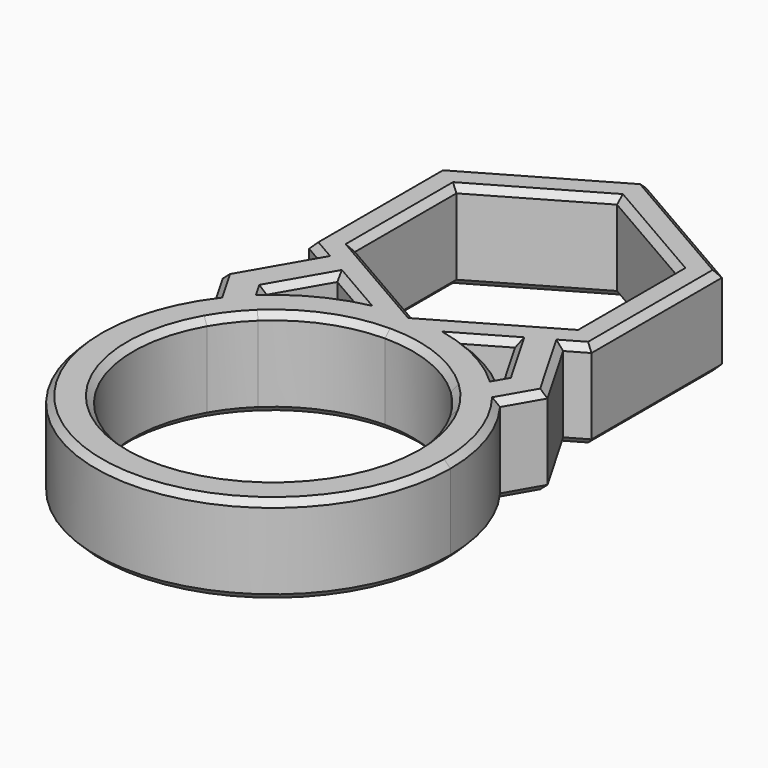
from build123d import *

# Parameters (mm, degrees)
F1_DEPTH = 7
F2_SIZE  = 0.5


with BuildPart() as f1:
    # F0 (on Top) → F1 (new body)
    with BuildSketch(Plane.XY):
        Polygon((8.378810594, 18.741624645), (9.614679115, 16.6010375752), (11.146737042, 17.4855716318), (11.146737042, 30.3567148954), (0, 36.7922865272), (-11.146737042, 30.3567148954), (-11.146737042, 17.4855716318), (-9.614679115, 16.6010375752), (-8.378810594, 18.741624645), (-8.675, 18.9126296784), (-8.675, 28.9296568488), (0, 33.938170434), (8.675, 28.9296568488), (8.675, 18.9126296784), align=None)
        Polygon((8.378810594, 18.741624645), (9.614679115, 16.6010375752), (11.146737042, 17.4855716318), (11.146737042, 30.3567148954), (0, 36.7922865272), (-11.146737042, 30.3567148954), (-11.146737042, 17.4855716318), (-9.614679115, 16.6010375752), (-8.378810594, 18.741624645), (-8.675, 18.9126296784), (-8.675, 28.9296568488), (0, 33.938170434), (8.675, 28.9296568488), (8.675, 18.9126296784), align=None)
        with BuildLine():
            Line((-4.0649183257, 13.3968816896), (0, 11.05))
            Line((0, 11.05), (4.0649183257, 13.3968816896))
            ThreePointArc((4.0649183257, 13.3968816896), (2.1359865208, 13.8360963275), (0.1644037795, 13.9990346595))
            Line((0.1644037795, 13.9990346595), (0, 13.9041160931))
            Line((0, 13.9041160931), (-0.1644037795, 13.9990346595))
            ThreePointArc((-0.1644037795, 13.9990346595), (-2.1359865208, 13.8360963275), (-4.0649183257, 13.3968816896))
        make_face()
        Polygon((8.378810594, 18.741624645), (9.614679115, 16.6010375752), (11.146737042, 17.4855716318), (11.146737042, 30.3567148954), (0, 36.7922865272), (-11.146737042, 30.3567148954), (-11.146737042, 17.4855716318), (-9.614679115, 16.6010375752), (-8.378810594, 18.741624645), (-8.675, 18.9126296784), (-8.675, 28.9296568488), (0, 33.938170434), (8.675, 28.9296568488), (8.675, 18.9126296784), align=None)
        with BuildLine():
            ThreePointArc((9.1121955979, 10.6286354433), (10.2458784466, 9.5405437401), (11.2504851637, 8.3322616126))
            Line((11.2504851637, 8.3322616126), (12.8195721533, 11.05))
            Line((12.8195721533, 11.05), (9.614679115, 16.6010375752))
            Line((9.614679115, 16.6010375752), (7.0166029036, 15.1010375752))
            Line((7.0166029036, 15.1010375752), (9.3554705381, 11.05))
            Line((9.3554705381, 11.05), (9.1121955979, 10.6286354433))
        make_face()
        with BuildLine():
            ThreePointArc((7.6044558373, 8.0171535733), (8.6955707884, 6.8183244762), (9.5995515555, 5.4727607232))
            Line((9.5995515555, 5.4727607232), (11.2504851637, 8.3322616126))
            ThreePointArc((11.2504851637, 8.3322616126), (10.2458784466, 9.5405437401), (9.1121955979, 10.6286354433))
            Line((9.1121955979, 10.6286354433), (7.6044558373, 8.0171535733))
        make_face()
        with BuildLine():
            ThreePointArc((0, 11.05), (4.0934675408, 10.2638210961), (7.6044558373, 8.0171535733))
            Line((7.6044558373, 8.0171535733), (9.1121955979, 10.6286354433))
            ThreePointArc((9.1121955979, 10.6286354433), (6.7323754841, 12.2749794436), (4.0649183257, 13.3968816896))
            Line((4.0649183257, 13.3968816896), (0, 11.05))
        make_face()
        with BuildLine():
            Line((-9.1121955979, 10.6286354433), (-7.6044558373, 8.0171535733))
            ThreePointArc((-7.6044558373, 8.0171535733), (-4.0934675408, 10.2638210961), (0, 11.05))
            Line((0, 11.05), (-4.0649183257, 13.3968816896))
            ThreePointArc((-4.0649183257, 13.3968816896), (-6.7323754841, 12.2749794436), (-9.1121955979, 10.6286354433))
        make_face()
        with BuildLine():
            Line((-4.0649183257, 13.3968816896), (0, 11.05))
            Line((0, 11.05), (4.0649183257, 13.3968816896))
            ThreePointArc((4.0649183257, 13.3968816896), (2.1359865208, 13.8360963275), (0.1644037795, 13.9990346595))
            Line((0.1644037795, 13.9990346595), (0, 13.9041160931))
            Line((0, 13.9041160931), (-0.1644037795, 13.9990346595))
            ThreePointArc((-0.1644037795, 13.9990346595), (-2.1359865208, 13.8360963275), (-4.0649183257, 13.3968816896))
        make_face()
        with BuildLine():
            ThreePointArc((9.5995515555, 5.4727607232), (10.6812345889, 2.8308528142), (11.05, 0))
            ThreePointArc((11.05, 0), (-2.8308528142, -10.6812345889), (-9.5995515555, 5.4727607232))
            Line((-9.5995515555, 5.4727607232), (-11.2504851637, 8.3322616126))
            ThreePointArc((-11.2504851637, 8.3322616126), (-4.3870951499, -13.2948635249), (14, 0))
            ThreePointArc((14, 0), (13.2948635249, 4.3870951499), (11.2504851637, 8.3322616126))
            Line((11.2504851637, 8.3322616126), (9.5995515555, 5.4727607232))
        make_face()
        with BuildLine():
            Line((-11.2504851637, 8.3322616126), (-9.5995515555, 5.4727607232))
            ThreePointArc((-9.5995515555, 5.4727607232), (-8.6955707884, 6.8183244762), (-7.6044558373, 8.0171535733))
            Line((-7.6044558373, 8.0171535733), (-9.1121955979, 10.6286354433))
            ThreePointArc((-9.1121955979, 10.6286354433), (-10.2458784466, 9.5405437401), (-11.2504851637, 8.3322616126))
        make_face()
        with BuildLine():
            Line((-12.8195721533, 11.05), (-11.2504851637, 8.3322616126))
            ThreePointArc((-11.2504851637, 8.3322616126), (-10.2458784466, 9.5405437401), (-9.1121955979, 10.6286354433))
            Line((-9.1121955979, 10.6286354433), (-9.3554705381, 11.05))
            Line((-9.3554705381, 11.05), (-7.0166029036, 15.1010375752))
            Line((-7.0166029036, 15.1010375752), (-9.614679115, 16.6010375752))
            Line((-9.614679115, 16.6010375752), (-12.8195721533, 11.05))
        make_face()
        with BuildLine():
            Line((-7.0166029036, 15.1010375752), (-4.0649183257, 13.3968816896))
            ThreePointArc((-4.0649183257, 13.3968816896), (-2.1359865208, 13.8360963275), (-0.1644037795, 13.9990346595))
            Line((-0.1644037795, 13.9990346595), (-5.7807343826, 17.241624645))
            Line((-5.7807343826, 17.241624645), (-7.0166029036, 15.1010375752))
        make_face()
        Polygon((-8.378810594, 18.741624645), (-9.614679115, 16.6010375752), (-7.0166029036, 15.1010375752), (-5.7807343826, 17.241624645), align=None)
        Polygon((7.0166029036, 15.1010375752), (9.614679115, 16.6010375752), (8.378810594, 18.741624645), (5.7807343826, 17.241624645), align=None)
        with BuildLine():
            ThreePointArc((0.1644037795, 13.9990346595), (2.1359865208, 13.8360963275), (4.0649183257, 13.3968816896))
            Line((4.0649183257, 13.3968816896), (7.0166029036, 15.1010375752))
            Line((7.0166029036, 15.1010375752), (5.7807343826, 17.241624645))
            Line((5.7807343826, 17.241624645), (0.1644037795, 13.9990346595))
        make_face()
    extrude(amount=F1_DEPTH)

    # F2
    f2_edges = [f1.edges().sort_by_distance(p)[0] for p in [
        (-11.146737, 23.921143, 7),
        (-5.573369, 33.574501, 7),
        (5.573369, 33.574501, 7),
        (11.146737, 23.921143, 7),
        (10.380708, 17.043305, 7),
        (11.217126, 13.825519, 7),
        (12.035029, 9.691131, 7),
        (0, -14, 7),
        (-12.035029, 9.691131, 7),
        (-11.217126, 13.825519, 7),
        (-10.380708, 17.043305, 7),
        (9.599552, -5.472761, 7),
        (-6.732375, 12.274979, 7),
        (-9.233833, 10.839318, 7),
        (-8.186037, 13.075519, 7),
        (-5.540761, 14.24896, 7),
        (4.3375, 16.408373, 7),
        (-4.3375, 16.408373, 7),
        (-8.675, 23.921143, 7),
        (-4.3375, 31.433914, 7),
        (4.3375, 31.433914, 7),
        (8.675, 23.921143, 7),
        (8.186037, 13.075519, 7),
        (9.233833, 10.839318, 7),
        (6.732375, 12.274979, 7),
        (5.540761, 14.24896, 7),
        (11.217126, 13.825519, 0),
        (10.380708, 17.043305, 0),
        (11.146737, 23.921143, 0),
        (5.573369, 33.574501, 0),
        (-5.573369, 33.574501, 0),
        (-11.146737, 23.921143, 0),
        (-10.380708, 17.043305, 0),
        (-11.217126, 13.825519, 0),
        (-12.035029, 9.691131, 0),
        (0, -14, 0),
        (12.035029, 9.691131, 0),
        (9.599552, -5.472761, 0),
        (-6.732375, 12.274979, 0),
        (-9.233833, 10.839318, 0),
        (-8.186037, 13.075519, 0),
        (-5.540761, 14.24896, 0),
        (4.3375, 16.408373, 0),
        (-4.3375, 16.408373, 0),
        (-8.675, 23.921143, 0),
        (-4.3375, 31.433914, 0),
        (4.3375, 31.433914, 0),
        (8.675, 23.921143, 0),
        (8.186037, 13.075519, 0),
        (9.233833, 10.839318, 0),
        (6.732375, 12.274979, 0),
        (5.540761, 14.24896, 0),
    ]]
    chamfer(f2_edges, length=F2_SIZE)


solid = f1.part
